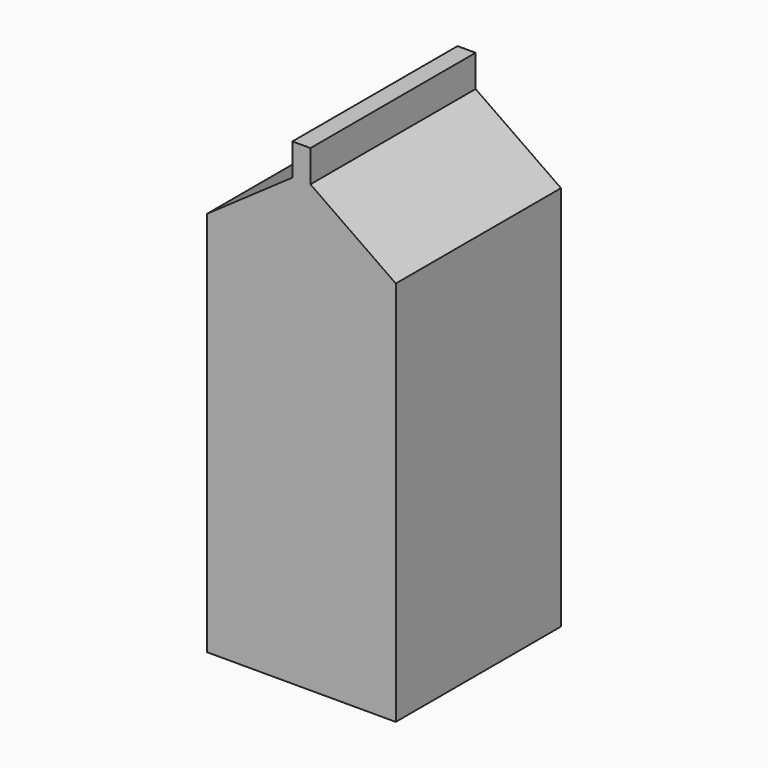
from build123d import *

# Parameters (mm, degrees)
F0_W     = 48.762698
F0_H     = 99.71349
F1_DEPTH = 26.67


with BuildPart() as f1:
    # F0 (on Front) → F1 (new body, symmetric)
    with BuildSketch(Plane.XZ):
        Rectangle(F0_W, F0_H)
        Polygon((-24.381349, 49.856745), (24.381349, 49.856745), (2.333878, 65.241262), (2.333878, 73.481873), (0, 73.481873), (-2.333878, 73.481873), (-2.333878, 65.241262), align=None)
    extrude(amount=F1_DEPTH, both=True)


solid = f1.part
